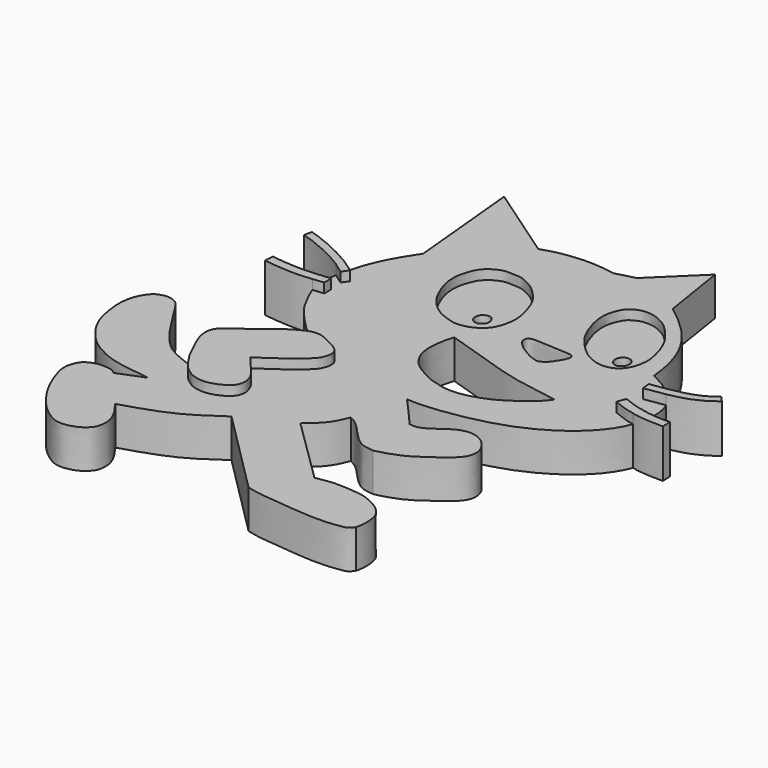
from build123d import *

# Parameters (mm, degrees)
F1_DEPTH = 4
F2_DEPTH = 3
F3_DEPTH = 5


with BuildPart() as f1:
    # F0 (on Top) → F1 (new body)
    with BuildSketch(Plane.XY):
        with BuildLine():
            add(Edge.make_bspline(
                [(-26.5839872264, 49.5766752353), (-26.4371024021, 49.5926655321), (-25.9895166386, 49.6366829129), (-25.5770023806, 49.6672653732), (-25.3004317969, 49.677814936)],
                knots=[0.3806385928, 0.3806385928, 0.3806385928, 0.3806385928, 0.4334056624, 0.5435201039, 0.5435201039, 0.5435201039, 0.5435201039], degree=3))
            ThreePointArc((-26.5839872264, 49.5766752353), (-25.0652006743, 48.910655776), (-23.555741375, 49.5975525186))
            add(Edge.make_bspline(
                [(-24.8193602743, 49.6851796937), (-24.7362563353, 49.6844273555), (-24.3195449573, 49.6751593843), (-23.8812891258, 49.6357574648), (-23.555741375, 49.5975525186)],
                knots=[0.6073190021, 0.6073190021, 0.6073190021, 0.6073190021, 0.6401763083, 0.7710861517, 0.7710861517, 0.7710861517, 0.7710861517], degree=3))
            ThreePointArc((-24.8193602743, 49.6851796937), (-25.0595482174, 49.6587775686), (-25.3004317969, 49.677814936))
        make_face()
        with BuildLine():
            Line((-29.5530743897, 48.9023700356), (-37.4778173864, 54.366633296))
            Line((-37.4778173864, 54.366633296), (-36.340682006, 42.425069252))
            add(Edge.make_bspline(
                [(-39.3492142598, 35.8996941908), (-39.3074211419, 36.0800879365), (-39.0660661166, 37.0466795571), (-38.5096896419, 38.7718597746), (-37.3009386122, 40.9751284232), (-36.6537846019, 41.9540537857), (-36.340682006, 42.425069252)],
                knots=[0.6677729016, 0.6677729016, 0.6677729016, 0.6677729016, 0.6925235555, 0.8007033815, 0.9094193064, 1, 1, 1, 1], degree=3))
            add(Edge.make_bspline(
                [(-39.3492142598, 35.8996941908), (-39.2542073224, 35.8364574676), (-39.0686996893, 35.7031027558), (-38.6819981452, 35.460693076), (-38.3572312089, 35.2296252762), (-38.0855184247, 35.0336442139), (-37.940248847, 34.9286906421)],
                knots=[0, 0, 0, 0, 0.224640202, 0.481129087, 0.7249098665, 1, 1, 1, 1], degree=3))
            add(Edge.make_bspline(
                [(-37.940248847, 34.9286906421), (-37.9707790696, 34.887586436), (-38.0612189383, 34.7815985037), (-38.3478476529, 34.3402483446), (-38.414824754, 34.2559628189)],
                knots=[0, 0, 0, 0, 0.3645404838, 1, 1, 1, 1], degree=3))
            add(Edge.make_bspline(
                [(-38.414824754, 34.2559628189), (-38.5096498869, 34.3259219294), (-38.6502383823, 34.4381858151), (-38.9349369928, 34.6416220029), (-39.3147550323, 34.883762766), (-39.4302381035, 35.0118852296), (-39.5164277977, 35.0651529752)],
                knots=[0, 0, 0, 0, 0.2353499762, 0.4890048818, 0.7744242161, 1, 1, 1, 1], degree=3))
            add(Edge.make_bspline(
                [(-39.585712883, 32.7305039568), (-39.6454672509, 33.1762803058), (-39.6646297923, 33.9613143531), (-39.5685719349, 34.7499722172), (-39.5164277977, 35.0651529752)],
                knots=[0.5221525162, 0.5221525162, 0.5221525162, 0.5221525162, 0.5866711201, 0.6297112491, 0.6297112491, 0.6297112491, 0.6297112491], degree=3))
            add(Edge.make_bspline(
                [(-39.585712883, 32.7305039568), (-39.3596170224, 32.7530936977), (-39.0800519313, 32.795861106), (-38.6024057178, 32.8347868374), (-38.3710330889, 32.8470260152), (-38.2601134479, 32.8565426171)],
                knots=[0, 0, 0, 0, 0.3681340959, 0.7061335219, 1, 1, 1, 1], degree=3))
            add(Edge.make_bspline(
                [(-38.2601134479, 32.8565426171), (-38.2585614104, 32.7415450243), (-38.2265442382, 32.258576909), (-38.2601134479, 32.0038673624), (-38.2601134479, 31.9386385381)],
                knots=[0, 0, 0, 0, 0.5761242992, 1, 1, 1, 1], degree=3))
            add(Edge.make_bspline(
                [(-38.2601134479, 31.9386385381), (-38.3860084728, 31.9268087831), (-38.6195683907, 31.8710505069), (-39.0600579816, 31.8524306174), (-39.2817121603, 31.8257883043), (-39.3792889065, 31.8153433592)],
                knots=[0, 0, 0, 0, 0.3317192067, 0.6922244447, 1, 1, 1, 1], degree=3))
            add(Edge.make_bspline(
                [(-33.0535471439, 24.6001183987), (-33.7926639348, 25.0621619307), (-35.1187476897, 25.786655482), (-36.3641574451, 27.0365272977), (-38.0369744269, 28.896147505), (-38.7302100705, 30.3898391777), (-39.218631158, 31.3277150189), (-39.3792889065, 31.8153433592)],
                knots=[0, 0, 0, 0, 0.1062876235, 0.1981970755, 0.3061692035, 0.3967749446, 0.4756984068, 0.4756984068, 0.4756984068, 0.4756984068], degree=3))
            add(Edge.make_bspline(
                [(-33.0535471439, 24.6001183987), (-32.9631571072, 24.5946110203), (-32.7663134343, 24.5977705285), (-32.4952399625, 24.4932477136), (-32.1480085592, 24.3909956253), (-31.6701300201, 24.116406655), (-30.8466850217, 23.7574067185), (-30.4775431661, 23.4692729833), (-30.1900172189, 23.2243839549), (-30.0134084448, 22.9491433911), (-29.9292433028, 22.5358087431), (-29.9697316584, 22.1676240999), (-30.0969582817, 21.7532971172), (-30.3132986586, 21.3225711335), (-30.632559585, 20.9815496564), (-31.0170935782, 20.582260985), (-31.368787403, 20.2512434917), (-31.9190137306, 19.8433639179), (-32.4102112458, 19.4660221615), (-33.7769417597, 18.5327608768), (-34.7103923559, 17.8953614086)],
                knots=[0, 0, 0, 0, 0.0402249141, 0.0807299978, 0.1253357826, 0.1823102454, 0.2543785416, 0.3066790475, 0.3520088748, 0.3949810136, 0.4434466124, 0.4895424777, 0.5392229346, 0.5914979716, 0.6434888384, 0.6993689183, 0.752927671, 0.8134740705, 0.8722955561, 1, 1, 1, 1], degree=3))
            add(Edge.make_bspline(
                [(-34.7103923559, 17.8953614086), (-34.2424451224, 17.3618187649), (-33.4776264627, 16.4897901677), (-32.9238462245, 15.7764044978), (-32.5798973104, 15.2694802996), (-32.4890922201, 14.8350311061), (-32.3417938363, 14.5521420024), (-32.3507126601, 14.0676595192), (-32.4812506785, 13.6449894938), (-32.6710064785, 13.3228410885), (-33.0401845458, 13.0073652484), (-33.3448659979, 12.7833124649), (-34.0013715965, 12.4644176497), (-34.795391129, 12.2816770436), (-35.1896282567, 12.2714414706), (-35.6211215623, 12.2965090364), (-36.0371436166, 12.4047834439), (-36.466712618, 12.5318320855), (-36.8131078837, 12.7669644309), (-37.2610719159, 13.0753236233), (-37.5915994104, 13.3954537483), (-37.9208424009, 13.7696351156), (-38.2064942382, 14.2044291037), (-38.3948827347, 14.4860852401), (-38.6200341122, 14.8124733729), (-38.814029744, 15.1390999944), (-38.8969779015, 15.2806499973)],
                knots=[0, 0, 0, 0, 0.0798555462, 0.1340805891, 0.1782355176, 0.2157621394, 0.247915098, 0.2873711793, 0.3257115564, 0.3608644493, 0.4002101946, 0.4357465058, 0.4850415503, 0.5372149816, 0.5733447564, 0.6104937015, 0.6485603077, 0.6866922309, 0.7240691942, 0.7663624431, 0.8055653656, 0.8464180236, 0.8878585192, 0.921161974, 0.9574933578, 1, 1, 1, 1], degree=3))
            add(Edge.make_bspline(
                [(-48.1152758002, 23.5314853489), (-47.9357122767, 23.5501012239), (-47.5164058394, 23.5930807017), (-46.7190704323, 23.2298219822), (-46.1582720776, 22.5238529227), (-44.2108942031, 19.2944045423), (-43.4458766455, 18.256600061), (-42.5889352664, 17.2788600237), (-41.57148716, 16.2929256592), (-39.8256758502, 15.5818497962), (-38.8969779015, 15.2806499973)],
                knots=[0, 0, 0, 0, 0.078918806, 0.1699537875, 0.2702202402, 0.468954795, 0.5914519171, 0.7031859589, 0.8254620677, 1, 1, 1, 1], degree=3))
            add(Edge.make_bspline(
                [(-40.1708446443, 11.4128673449), (-41.2469106629, 11.5504879541), (-43.1777846581, 11.7974319619), (-45.0283068973, 12.2785421426), (-46.8701238852, 13.2760255122), (-47.9794041317, 14.2766018455), (-49.3013550822, 16.0139304796), (-49.9416315964, 17.7646738682), (-50.2593778677, 20.1115598534), (-50.0337771266, 21.6653522741), (-49.4358324516, 22.7767257867), (-48.8719987611, 23.3419622281), (-48.3673169941, 23.468361014), (-48.1152758002, 23.5314853489)],
                knots=[0, 0, 0, 0, 0.1227399602, 0.2202424323, 0.3194520906, 0.4060995184, 0.5077953822, 0.6050254763, 0.7122276055, 0.8004845449, 0.8776914057, 0.938918332, 1, 1, 1, 1], degree=3))
            add(Edge.make_bspline(
                [(-42.8638719022, 10.335655883), (-41.9661961496, 10.6947263703), (-41.0685203969, 11.0537968576), (-40.1708446443, 11.4128673449)],
                knots=[0, 0, 0, 0, 2.9004793303, 2.9004793303, 2.9004793303, 2.9004793303], degree=3))
            add(Edge.make_bspline(
                [(-39.362937212, 6.1614657752), (-39.1218814776, 5.8364627319), (-38.6295911255, 5.1837387121), (-38.0278829106, 4.0881791438), (-37.8554887595, 3.2193468679), (-37.9726673426, 2.1771637275), (-38.3979421797, 1.6767858731), (-38.8524750258, 1.2403118823), (-39.8966512955, 0.786944284), (-41.0469758119, 0.7070950886), (-41.9429387249, 1.0781225624), (-42.9765643114, 1.8411140278), (-43.7683828665, 2.6402858815), (-44.8792764547, 4.0595482713), (-45.6535683421, 5.395344859), (-46.3926377345, 7.2285935781), (-46.6402854133, 8.2901274434), (-46.6289325645, 9.1007495952), (-46.3360923739, 9.8919703426), (-45.9476354368, 10.3837452242), (-44.9317541181, 10.8427599672), (-44.1333639184, 10.7772074583), (-43.4427830666, 10.7738397699), (-43.0589595957, 10.4833197703), (-42.8638719022, 10.335655883)],
                knots=[0, 0, 0, 0, 0.0500700759, 0.0998563649, 0.1424736004, 0.187477292, 0.2230173613, 0.2581964822, 0.3058616386, 0.3537716249, 0.3976771727, 0.4478548643, 0.496264633, 0.5557720724, 0.6131632671, 0.676117529, 0.72297886, 0.7628792628, 0.8032681836, 0.8387589853, 0.8851600611, 0.9257417656, 0.9621699522, 1, 1, 1, 1], degree=3))
            add(Edge.make_bspline(
                [(-30.610602349, 10.335655883), (-31.8580405724, 9.4643984327), (-34.426024868, 7.6708222797), (-37.686360308, 6.6740436942), (-39.362937212, 6.1614657752)],
                knots=[0, 0, 0, 0, 0.4857655187, 1, 1, 1, 1], degree=3))
            add(Edge.make_bspline(
                [(-21.7236150056, 1.4486700529), (-24.6859441201, 4.4109986629), (-27.6482732346, 7.3733272729), (-30.610602349, 10.335655883)],
                knots=[0, 0, 0, 0, 12.5680969596, 12.5680969596, 12.5680969596, 12.5680969596], degree=3))
            add(Edge.make_bspline(
                [(-10.5475569144, 1.4486700529), (-10.6853234183, 1.2622462566), (-10.9565203185, 0.895266227), (-11.6299894238, 0.8071850508), (-12.6445882553, 0.6366244521), (-14.5513777666, 0.5869435233), (-16.1197650889, 0.7236543362), (-18.1578060943, 0.9209721732), (-20.1384466239, 1.0882594686), (-21.2154332408, 1.3331276986), (-21.7236150056, 1.4486700529)],
                knots=[0, 0, 0, 0, 0.0864484367, 0.1701759674, 0.2787242805, 0.4254496078, 0.5614137975, 0.7135875576, 0.8648547919, 1, 1, 1, 1], degree=3))
            add(Edge.make_bspline(
                [(-18.6117291451, 6.127728615), (-18.093435943, 6.2296516707), (-17.0218816884, 6.440374257), (-15.1850591973, 6.3548999348), (-13.5665351111, 6.2190359468), (-12.2335234011, 5.6192378063), (-11.2744870288, 5.0107082772), (-10.6241713354, 4.1604929151), (-10.4740668956, 3.516481208), (-10.3828231173, 2.8058086853), (-10.4091119351, 2.0774740027), (-10.5024320882, 1.6536227287), (-10.5475569144, 1.4486700529)],
                knots=[0, 0, 0, 0, 0.1211381369, 0.2504491386, 0.3724453352, 0.4865191084, 0.5886685317, 0.685077068, 0.7619617011, 0.8421812242, 0.9236869573, 1, 1, 1, 1], degree=3))
            add(Edge.make_bspline(
                [(-25.4938509315, 12.8940315917), (-23.2047792524, 10.7396105304), (-20.9008008242, 8.2821496762), (-18.6117291451, 6.127728615)],
                knots=[0, 0, 0, 0, 9.651241177, 9.651241177, 9.651241177, 9.651241177], degree=3))
            add(Edge.make_bspline(
                [(-22.9354780167, 16.2603147328), (-23.180604661, 15.6626200388), (-23.6940619391, 14.410652136), (-24.8761149525, 13.4145765448), (-25.4938509315, 12.8940315917)],
                knots=[0, 0, 0, 0, 0.4774041672, 1, 1, 1, 1], degree=3))
            add(Edge.make_bspline(
                [(-17.8764564916, 12.8452228382), (-18.2910200074, 12.9211232094), (-19.1319726042, 12.9134894994), (-20.3922607798, 13.9230338509), (-21.8860160477, 15.7164255905), (-22.6522489064, 16.1284312237), (-22.9354780167, 16.2603147328)],
                knots=[0, 0, 0, 0, 0.2213046484, 0.4748838239, 0.7858101317, 1, 1, 1, 1], degree=3))
            add(Edge.make_bspline(
                [(-18.4536091983, 18.3039940894), (-18.4089016702, 18.2959893521), (-18.5068819134, 18.3323638365), (-17.389250108, 18.0708800717), (-15.6436242259, 19.591503639), (-14.407019022, 20.1762080181), (-13.4181875913, 20.2857201436), (-12.0804720463, 19.8230604682), (-10.9912617666, 18.3653276896), (-11.0918109849, 16.8416940739), (-12.2849899523, 15.7136689459), (-13.4937920404, 14.8699406293), (-15.2534957154, 13.582305397), (-16.8366232289, 13.0916354941), (-17.8764564916, 12.8452228382)],
                knots=[0, 0, 0, 0, 0.0118545483, 0.0744007215, 0.1854541791, 0.2696023146, 0.3384083502, 0.4216747395, 0.5157967117, 0.6000441163, 0.6890357788, 0.7767564779, 0.8801591372, 1, 1, 1, 1], degree=3))
            add(Edge.make_bspline(
                [(-21.3678583119, 21.5956345128), (-20.8407253573, 21.0511245657), (-20.1614865599, 20.2728467134), (-19.0478204113, 18.9541415248), (-18.4536091983, 18.3039940894)],
                knots=[0, 0, 0, 0, 0.4609003134, 1, 1, 1, 1], degree=3))
            add(Edge.make_bspline(
                [(-4.2875845641, 29.6565775495), (-4.4509699725, 29.2152574407), (-5.1648580525, 27.7652557835), (-7.3816189803, 25.3722035449), (-12.0249736773, 22.7412050497), (-18.0501820871, 21.6049542836), (-20.2533538099, 21.5418343656), (-21.3678583119, 21.5956345128)],
                knots=[0.345936228, 0.345936228, 0.345936228, 0.345936228, 0.40220816, 0.5374782402, 0.7005890824, 0.8727660705, 1, 1, 1, 1], degree=3))
            add(Edge.make_bspline(
                [(-6.6217845306, 30.4024852812), (-6.4087394048, 30.3162587531), (-5.9176879182, 30.0995193307), (-5.403657341, 29.9367262195), (-4.7262706118, 29.710988028), (-4.4446370838, 29.6925055262), (-4.2875845641, 29.6565775495)],
                knots=[0, 0, 0, 0, 0.2776956144, 0.5203232324, 0.785000754, 1, 1, 1, 1], degree=3))
            add(Edge.make_bspline(
                [(-6.2697250396, 31.2885828316), (-6.3298218884, 31.1518199742), (-6.5616876818, 30.5392481387), (-6.6217845306, 30.4024852812)],
                knots=[0, 0, 0, 0, 0.9534750935, 0.9534750935, 0.9534750935, 0.9534750935], degree=3))
            add(Edge.make_bspline(
                [(-4.0188429443, 30.5842483628), (-4.1992651642, 30.6156420576), (-4.5868766082, 30.688421363), (-5.3594388671, 30.9291063991), (-5.9545752521, 31.1644156533), (-6.2697250396, 31.2885828316)],
                knots=[0, 0, 0, 0, 0.2842285587, 0.622708194, 1, 1, 1, 1], degree=3))
            add(Edge.make_bspline(
                [(-4.2722358398, 33.9342041891), (-3.9096507872, 33.0888721573), (-3.8012451129, 31.907126686), (-3.9694273575, 30.8181886757), (-4.0188429443, 30.5842483628)],
                knots=[0.1774718847, 0.1774718847, 0.1774718847, 0.1774718847, 0.2790200525, 0.3074459982, 0.3074459982, 0.3074459982, 0.3074459982], degree=3))
            add(Edge.make_bspline(
                [(-6.436325144, 33.5929952562), (-6.2281077733, 33.6200475927), (-5.7925356386, 33.678942967), (-5.1081597904, 33.8007766256), (-4.5168013352, 33.8689498439), (-4.2722358398, 33.9342041891)],
                knots=[0, 0, 0, 0, 0.3123011267, 0.6421160114, 1, 1, 1, 1], degree=3))
            add(Edge.make_bspline(
                [(-6.5001188777, 34.4728752971), (-6.5001188777, 34.4139956934), (-6.4609749361, 34.2490952469), (-6.436325144, 33.6939263001), (-6.436325144, 33.5929952562)],
                knots=[0, 0, 0, 0, 0.3813518958, 1, 1, 1, 1], degree=3))
            add(Edge.make_bspline(
                [(-4.7291023657, 34.7453989089), (-4.9173112345, 34.6887796516), (-5.2157034176, 34.6592665898), (-5.8879093932, 34.5419520825), (-6.2806396692, 34.4953351131), (-6.5001188777, 34.4728752971)],
                knots=[0, 0, 0, 0, 0.3079228395, 0.6567858831, 1, 1, 1, 1], degree=3))
            add(Edge.make_bspline(
                [(-8.2912842729, 37.3737391855), (-6.8973503488, 36.7238113779), (-5.5187562011, 35.8486704514), (-4.7291023657, 34.7453989089)],
                knots=[0, 0, 0, 0, 0.1437617177, 0.1437617177, 0.1437617177, 0.1437617177], degree=3))
            add(Edge.make_bspline(
                [(-14.4524453208, 47.499421984), (-12.5134537774, 46.0658600022), (-9.4216021883, 43.1755723387), (-8.4478287999, 39.251232293), (-8.2912842729, 37.3737391855)],
                knots=[0, 0, 0, 0, 0.5190851678, 1, 1, 1, 1], degree=3))
            Line((-14.4524453208, 47.499421984), (-15.5296549201, 54.366633296))
            Line((-15.5296549201, 54.366633296), (-20.1007202268, 49.9270744622))
            add(Edge.make_bspline(
                [(-22.1494715661, 49.3808910251), (-21.466554453, 49.5629521708), (-20.7836373399, 49.7450133165), (-20.1007202268, 49.9270744622)],
                knots=[0, 0, 0, 0, 2.1203062037, 2.1203062037, 2.1203062037, 2.1203062037], degree=3))
            add(Edge.make_bspline(
                [(-23.555741375, 49.5975525186), (-23.3758572179, 49.5764420531), (-22.8305342527, 49.5031536331), (-22.4261042365, 49.430551405), (-22.1494715661, 49.3808910251)],
                knots=[0.7710861517, 0.7710861517, 0.7710861517, 0.7710861517, 0.8434214905, 1, 1, 1, 1], degree=3))
            ThreePointArc((-23.555741375, 49.5975525186), (-25.0652006743, 48.910655776), (-26.5839872264, 49.5766752353))
            add(Edge.make_bspline(
                [(-29.5530743897, 48.9023700356), (-29.066689392, 49.0661990939), (-28.1719181555, 49.3675848886), (-27.0675867401, 49.5240292265), (-26.5839872264, 49.5766752353)],
                knots=[0, 0, 0, 0, 0.2069097592, 0.3806385928, 0.3806385928, 0.3806385928, 0.3806385928], degree=3))
        make_face()
        with BuildLine():
            add(Edge.make_bspline(
                [(-30.2332229912, 43.7892563641), (-29.9228573165, 43.9786689664), (-29.2723721118, 44.2580765773), (-28.4939490566, 44.1539891425), (-27.5850567213, 44.1949816093), (-26.8281580775, 43.8421872539), (-25.9100054238, 43.3758884798), (-25.1574011532, 42.6809519633), (-24.1051747346, 41.4860622391), (-23.6121289203, 40.0697515073), (-23.2089934768, 38.5936537563), (-23.2842781044, 37.3338698883), (-23.6638343265, 35.9062931264), (-24.5498236175, 35.0331069933), (-25.6471985976, 34.5462678669), (-26.7828984726, 34.4210375757), (-27.8652470353, 34.7971765943), (-28.7522360902, 35.1370106216), (-29.8519942667, 35.9958474036), (-30.6636825645, 36.998548432), (-31.3383124235, 38.3879976954), (-31.7466248037, 39.6815342716), (-31.812891324, 41.066587122), (-31.4736446338, 42.2302509474), (-31.073930425, 43.1532132071), (-30.5415624403, 43.601080344), (-30.2332229912, 43.7892563641)],
                knots=[0, 0, 0, 0, 0.0392818866, 0.0731369283, 0.1090732528, 0.1440604386, 0.1824669357, 0.22149237, 0.2693822968, 0.3167979944, 0.363774358, 0.406947201, 0.4528476431, 0.4949618328, 0.5365688294, 0.5772360979, 0.6176530938, 0.6552170319, 0.6998450674, 0.743839122, 0.7911945707, 0.8361085383, 0.8809087685, 0.9230057249, 0.9609745657, 1, 1, 1, 1], degree=3))
        make_face(mode=Mode.SUBTRACT)
        with BuildLine():
            add(Edge.make_bspline(
                [(-11.9668785483, 29.0517173707), (-12.1266915861, 28.8308204157), (-12.4638759427, 28.3647570791), (-13.2463803236, 27.6652041288), (-13.9879346739, 27.0760625495), (-14.9079685894, 26.491538233), (-15.8043151915, 25.9247790231), (-16.8824666584, 25.4888679228), (-17.8901488362, 25.1749393867), (-18.8866916749, 25.0097543728), (-19.7854280881, 24.9833053344), (-20.5369692353, 25.0871755782), (-21.1872469006, 25.2680948683), (-22.069518343, 25.4963942641), (-22.6847600294, 25.8612975299), (-23.4568771395, 26.2242900643), (-23.9319348242, 26.5564825966), (-24.583452984, 27.0717376624), (-24.9881258195, 27.6292451253), (-25.4014152723, 28.3251148829), (-25.6252221574, 29.3260344377), (-25.6331980389, 30.1388132903), (-25.5123344024, 31.3960008046), (-25.2805997639, 32.1387110101), (-25.1662172377, 32.5053073466)],
                knots=[0, 0, 0, 0, 0.0438086152, 0.0924303795, 0.1392130306, 0.188726069, 0.2381250828, 0.2894345139, 0.3386395925, 0.3865444237, 0.4318077476, 0.472852108, 0.5122924739, 0.5573349234, 0.5984107248, 0.6417720514, 0.6786540272, 0.7214984446, 0.7611734402, 0.803980849, 0.851672857, 0.8951141151, 0.9482290928, 1, 1, 1, 1], degree=3))
            add(Edge.make_bspline(
                [(-25.1662172377, 32.5053073466), (-24.477369694, 32.2827101509), (-23.0305656259, 31.8151835826), (-20.5165900127, 31.0154553278), (-18.5294838805, 30.3568325572), (-17.5476614834, 30.090053469), (-16.654473127, 29.8606772443), (-14.7822099172, 29.5093614142), (-13.225902646, 29.2757564141), (-12.3675238636, 29.1230108379), (-11.9668785483, 29.0517173707)],
                knots=[0, 0, 0, 0, 0.1453850013, 0.3053558268, 0.4457948416, 0.5409684403, 0.6332287289, 0.7672989152, 0.8913875769, 1, 1, 1, 1], degree=3))
        make_face(mode=Mode.SUBTRACT)
        with BuildLine():
            add(Edge.make_bspline(
                [(-20.2588122338, 36.1583940685), (-20.1500139402, 36.2079069942), (-19.7693391299, 36.2709158991), (-19.2247680781, 36.2207844573), (-18.3881798225, 36.1440813584), (-17.197354232, 36.126111563), (-16.3532405526, 36.0787118489), (-15.9633912824, 36.0579556731), (-15.7670365341, 35.9592250899), (-15.6207432266, 35.8687533078), (-15.5561173236, 35.6490146793), (-15.6129642165, 35.3984012039), (-15.7777863905, 34.9773417702), (-16.159968941, 34.3994389342), (-16.3918459644, 34.0333670103), (-16.7028433204, 33.7436073253), (-16.9487839655, 33.5866363815), (-17.1549643096, 33.4818844767), (-17.37300291, 33.4485376384), (-17.6702482402, 33.5330014828), (-18.2294877514, 33.7150729402), (-18.6629755275, 33.9565103268), (-19.3635895553, 34.3640387622), (-19.6934659868, 34.620613572), (-20.0855591483, 34.9595705426), (-20.4137579247, 35.3279635048), (-20.4919572603, 35.591191227), (-20.5041164663, 35.8729358255), (-20.4058115954, 36.0500197614), (-20.3266665135, 36.1275143203), (-20.2588122338, 36.1583940685)],
                knots=[0, 0, 0, 0, 0.0381523554, 0.079608197, 0.1305217653, 0.1922387115, 0.2436054589, 0.2773170824, 0.3025599074, 0.3249374098, 0.35021895, 0.3778488188, 0.4153491898, 0.4618209891, 0.4989849837, 0.5346547627, 0.5647382431, 0.591053267, 0.6162140804, 0.6469357367, 0.6890416427, 0.7296185155, 0.7790080814, 0.8155301908, 0.8554234015, 0.8942178607, 0.9231065158, 0.9519717671, 0.9762055037, 1, 1, 1, 1], degree=3))
        make_face(mode=Mode.SUBTRACT)
        with BuildLine():
            add(Edge.make_bspline(
                [(-16.083991155, 45.7068160176), (-15.8551976763, 45.7368439657), (-15.2731085638, 45.7327852191), (-14.6491490859, 45.5766587048), (-13.7550923034, 45.1699384927), (-13.0151732466, 44.6282296992), (-12.2313726289, 43.765879081), (-11.4376299248, 42.7680506691), (-10.8949018384, 41.6625820569), (-10.5081982258, 40.3759603792), (-10.2810366438, 39.3430675777), (-10.3964018108, 38.1614381357), (-10.6178423175, 37.4857447733), (-10.945168406, 36.9464319), (-11.358191867, 36.5002877162), (-12.0588313718, 36.1934878533), (-12.9685080458, 36.0852626318), (-13.9270862498, 36.4172645352), (-14.6986842098, 36.8020449668), (-15.4583137731, 37.4345883822), (-16.0580442749, 38.0375402456), (-17.027972409, 39.1601050238), (-17.7035072848, 40.7790748079), (-18.095755331, 42.2672559446), (-18.0767855005, 43.3524360633), (-17.9015599598, 44.0048358426), (-17.6622958469, 44.6309814777), (-17.3607065619, 45.111917315), (-16.9713462688, 45.3748206012), (-16.5266320191, 45.5986661688), (-16.2600046376, 45.6837151681), (-16.083991155, 45.7068160176)],
                knots=[0, 0, 0, 0, 0.0322051239, 0.0618552959, 0.0973124617, 0.1322916175, 0.1713743686, 0.2124357085, 0.2529221562, 0.2947748896, 0.3325696762, 0.3716810006, 0.4023438997, 0.4306810546, 0.4586532768, 0.4899830988, 0.5245754607, 0.5608200521, 0.5948395142, 0.630335501, 0.6639271166, 0.7076822206, 0.7563588814, 0.8016853947, 0.8388962974, 0.8685464694, 0.8981648027, 0.9252606072, 0.9499764709, 0.9752242238, 1, 1, 1, 1], degree=3))
        make_face(mode=Mode.SUBTRACT)
        with BuildLine():
            add(Edge.make_bspline(
                [(-26.5839872264, 49.5766752353), (-26.4371024021, 49.5926655321), (-25.9895166386, 49.6366829129), (-25.5770023806, 49.6672653732), (-25.3004317969, 49.677814936)],
                knots=[0.3806385928, 0.3806385928, 0.3806385928, 0.3806385928, 0.4334056624, 0.5435201039, 0.5435201039, 0.5435201039, 0.5435201039], degree=3))
            ThreePointArc((-26.5839872264, 49.5766752353), (-25.0652006743, 48.910655776), (-23.555741375, 49.5975525186))
            add(Edge.make_bspline(
                [(-24.8193602743, 49.6851796937), (-24.7362563353, 49.6844273555), (-24.3195449573, 49.6751593843), (-23.8812891258, 49.6357574648), (-23.555741375, 49.5975525186)],
                knots=[0.6073190021, 0.6073190021, 0.6073190021, 0.6073190021, 0.6401763083, 0.7710861517, 0.7710861517, 0.7710861517, 0.7710861517], degree=3))
            ThreePointArc((-24.8193602743, 49.6851796937), (-25.0595482174, 49.6587775686), (-25.3004317969, 49.677814936))
        make_face()
    extrude(amount=F1_DEPTH)

    # F0 (on Top) → F2 (join)
    with BuildSketch(Plane.XY):
        with BuildLine():
            add(Edge.make_bspline(
                [(-30.2332229912, 43.7892563641), (-29.9228573165, 43.9786689664), (-29.2723721118, 44.2580765773), (-28.4939490566, 44.1539891425), (-27.5850567213, 44.1949816093), (-26.8281580775, 43.8421872539), (-25.9100054238, 43.3758884798), (-25.1574011532, 42.6809519633), (-24.1051747346, 41.4860622391), (-23.6121289203, 40.0697515073), (-23.2089934768, 38.5936537563), (-23.2842781044, 37.3338698883), (-23.6638343265, 35.9062931264), (-24.5498236175, 35.0331069933), (-25.6471985976, 34.5462678669), (-26.7828984726, 34.4210375757), (-27.8652470353, 34.7971765943), (-28.7522360902, 35.1370106216), (-29.8519942667, 35.9958474036), (-30.6636825645, 36.998548432), (-31.3383124235, 38.3879976954), (-31.7466248037, 39.6815342716), (-31.812891324, 41.066587122), (-31.4736446338, 42.2302509474), (-31.073930425, 43.1532132071), (-30.5415624403, 43.601080344), (-30.2332229912, 43.7892563641)],
                knots=[0, 0, 0, 0, 0.0392818866, 0.0731369283, 0.1090732528, 0.1440604386, 0.1824669357, 0.22149237, 0.2693822968, 0.3167979944, 0.363774358, 0.406947201, 0.4528476431, 0.4949618328, 0.5365688294, 0.5772360979, 0.6176530938, 0.6552170319, 0.6998450674, 0.743839122, 0.7911945707, 0.8361085383, 0.8809087685, 0.9230057249, 0.9609745657, 1, 1, 1, 1], degree=3))
        make_face()
        with BuildLine():
            add(Edge.make_bspline(
                [(-26.5627074987, 38.6980585754), (-26.4284734325, 38.7080391307), (-26.1498368015, 38.6241333689), (-25.9318898621, 38.3093011997), (-25.7937751732, 37.9442096476), (-25.8697063907, 37.5065647266), (-26.159703492, 37.2178687125), (-26.5093564187, 37.0341103995), (-27.023801647, 37.2152934369), (-27.2948718476, 37.6222646499), (-27.2949589147, 38.0517397259), (-27.1737722248, 38.4004151314), (-26.9268909105, 38.5748985253), (-26.6943977914, 38.6882671544), (-26.5627074987, 38.6980585754)],
                knots=[0, 0, 0, 0, 0.0839090766, 0.1646215273, 0.2468575028, 0.3327835732, 0.4163306829, 0.4970406289, 0.5908709364, 0.6815916481, 0.7674587214, 0.8458965744, 0.9176810241, 1, 1, 1, 1], degree=3))
        make_face(mode=Mode.SUBTRACT)
        with BuildLine():
            add(Edge.make_bspline(
                [(-16.083991155, 45.7068160176), (-15.8551976763, 45.7368439657), (-15.2731085638, 45.7327852191), (-14.6491490859, 45.5766587048), (-13.7550923034, 45.1699384927), (-13.0151732466, 44.6282296992), (-12.2313726289, 43.765879081), (-11.4376299248, 42.7680506691), (-10.8949018384, 41.6625820569), (-10.5081982258, 40.3759603792), (-10.2810366438, 39.3430675777), (-10.3964018108, 38.1614381357), (-10.6178423175, 37.4857447733), (-10.945168406, 36.9464319), (-11.358191867, 36.5002877162), (-12.0588313718, 36.1934878533), (-12.9685080458, 36.0852626318), (-13.9270862498, 36.4172645352), (-14.6986842098, 36.8020449668), (-15.4583137731, 37.4345883822), (-16.0580442749, 38.0375402456), (-17.027972409, 39.1601050238), (-17.7035072848, 40.7790748079), (-18.095755331, 42.2672559446), (-18.0767855005, 43.3524360633), (-17.9015599598, 44.0048358426), (-17.6622958469, 44.6309814777), (-17.3607065619, 45.111917315), (-16.9713462688, 45.3748206012), (-16.5266320191, 45.5986661688), (-16.2600046376, 45.6837151681), (-16.083991155, 45.7068160176)],
                knots=[0, 0, 0, 0, 0.0322051239, 0.0618552959, 0.0973124617, 0.1322916175, 0.1713743686, 0.2124357085, 0.2529221562, 0.2947748896, 0.3325696762, 0.3716810006, 0.4023438997, 0.4306810546, 0.4586532768, 0.4899830988, 0.5245754607, 0.5608200521, 0.5948395142, 0.630335501, 0.6639271166, 0.7076822206, 0.7563588814, 0.8016853947, 0.8388962974, 0.8685464694, 0.8981648027, 0.9252606072, 0.9499764709, 0.9752242238, 1, 1, 1, 1], degree=3))
        make_face()
        with BuildLine():
            add(Edge.make_bspline(
                [(-12.9578169435, 39.9454273283), (-12.8652696333, 39.9427086542), (-12.7029498736, 39.9108022127), (-12.3917542378, 39.6330276566), (-12.2700890615, 39.3217684323), (-12.3327409295, 38.7815422417), (-12.578382067, 38.5068202502), (-12.951583192, 38.2770381905), (-13.4527773109, 38.4314711854), (-13.7487076492, 38.81587643), (-13.7705497325, 39.3178958545), (-13.6216116129, 39.6463562443), (-13.3528548624, 39.921272856), (-13.0705482904, 39.9487389298), (-12.9578169435, 39.9454273283)],
                knots=[0, 0, 0, 0, 0.0669047043, 0.1494979739, 0.2264163995, 0.3213195244, 0.4013264064, 0.4856177608, 0.577343259, 0.6678374692, 0.7593737526, 0.838280868, 0.9185037641, 1, 1, 1, 1], degree=3))
        make_face(mode=Mode.SUBTRACT)
    extrude(amount=F2_DEPTH)

    # F0 (on Top) → F3 (join)
    with BuildSketch(Plane.XY):
        with BuildLine():
            add(Edge.make_bspline(
                [(-33.0535471439, 24.6001183987), (-32.9631571072, 24.5946110203), (-32.7663134343, 24.5977705285), (-32.4952399625, 24.4932477136), (-32.1480085592, 24.3909956253), (-31.6701300201, 24.116406655), (-30.8466850217, 23.7574067185), (-30.4775431661, 23.4692729833), (-30.1900172189, 23.2243839549), (-30.0134084448, 22.9491433911), (-29.9292433028, 22.5358087431), (-29.9697316584, 22.1676240999), (-30.0969582817, 21.7532971172), (-30.3132986586, 21.3225711335), (-30.632559585, 20.9815496564), (-31.0170935782, 20.582260985), (-31.368787403, 20.2512434917), (-31.9190137306, 19.8433639179), (-32.4102112458, 19.4660221615), (-33.7769417597, 18.5327608768), (-34.7103923559, 17.8953614086)],
                knots=[0, 0, 0, 0, 0.0402249141, 0.0807299978, 0.1253357826, 0.1823102454, 0.2543785416, 0.3066790475, 0.3520088748, 0.3949810136, 0.4434466124, 0.4895424777, 0.5392229346, 0.5914979716, 0.6434888384, 0.6993689183, 0.752927671, 0.8134740705, 0.8722955561, 1, 1, 1, 1], degree=3))
            add(Edge.make_bspline(
                [(-39.7912524641, 20.3645452857), (-39.6071100395, 20.5496146502), (-39.2805917687, 20.7968860736), (-38.7943843642, 21.1255001224), (-37.9325715116, 21.7220066639), (-37.1673304137, 22.292950308), (-35.7400698521, 23.5158078021), (-34.8040939395, 24.0507933176), (-34.1431889304, 24.3906490262), (-33.5464570678, 24.6160640008), (-33.2210499716, 24.6014940475), (-33.0535471439, 24.6001183987)],
                knots=[0, 0, 0, 0, 0.0981238213, 0.1895222805, 0.3095603412, 0.4304811497, 0.5942946015, 0.7203650274, 0.8224060527, 0.9164017421, 1, 1, 1, 1], degree=3))
            add(Edge.make_bspline(
                [(-38.8969779015, 15.2806499973), (-39.3012389541, 16.0646717995), (-39.8580105107, 17.1931175051), (-40.3036074819, 18.4351081454), (-40.366577557, 19.2254409589), (-40.2167365918, 19.8598418249), (-39.9757716918, 20.204628871), (-39.7912524641, 20.3645452857)],
                knots=[0, 0, 0, 0, 0.2937846737, 0.5141928806, 0.6859246244, 0.8405828017, 1, 1, 1, 1], degree=3))
            add(Edge.make_bspline(
                [(-34.7103923559, 17.8953614086), (-34.2424451224, 17.3618187649), (-33.4776264627, 16.4897901677), (-32.9238462245, 15.7764044978), (-32.5798973104, 15.2694802996), (-32.4890922201, 14.8350311061), (-32.3417938363, 14.5521420024), (-32.3507126601, 14.0676595192), (-32.4812506785, 13.6449894938), (-32.6710064785, 13.3228410885), (-33.0401845458, 13.0073652484), (-33.3448659979, 12.7833124649), (-34.0013715965, 12.4644176497), (-34.795391129, 12.2816770436), (-35.1896282567, 12.2714414706), (-35.6211215623, 12.2965090364), (-36.0371436166, 12.4047834439), (-36.466712618, 12.5318320855), (-36.8131078837, 12.7669644309), (-37.2610719159, 13.0753236233), (-37.5915994104, 13.3954537483), (-37.9208424009, 13.7696351156), (-38.2064942382, 14.2044291037), (-38.3948827347, 14.4860852401), (-38.6200341122, 14.8124733729), (-38.814029744, 15.1390999944), (-38.8969779015, 15.2806499973)],
                knots=[0, 0, 0, 0, 0.0798555462, 0.1340805891, 0.1782355176, 0.2157621394, 0.247915098, 0.2873711793, 0.3257115564, 0.3608644493, 0.4002101946, 0.4357465058, 0.4850415503, 0.5372149816, 0.5733447564, 0.6104937015, 0.6485603077, 0.6866922309, 0.7240691942, 0.7663624431, 0.8055653656, 0.8464180236, 0.8878585192, 0.921161974, 0.9574933578, 1, 1, 1, 1], degree=3))
        make_face()
        with BuildLine():
            add(Edge.make_bspline(
                [(-39.5164277977, 35.0651529752), (-39.4703152028, 35.3438765938), (-39.4134838804, 35.6222839815), (-39.3492142598, 35.8996941908)],
                knots=[0.6297112491, 0.6297112491, 0.6297112491, 0.6297112491, 0.6677729016, 0.6677729016, 0.6677729016, 0.6677729016], degree=3))
            add(Edge.make_bspline(
                [(-44.5680953562, 38.2509753108), (-44.4642691029, 38.2205152273), (-44.2532154853, 38.1679621172), (-43.8516145911, 38.020706144), (-43.5061733268, 37.9023932953), (-43.0254355285, 37.7199193085), (-42.520357744, 37.5191962261), (-42.0548152403, 37.3073299786), (-41.5979730901, 37.1069447996), (-41.1530132235, 36.8864153597), (-40.7929008915, 36.6984165234), (-40.3427143305, 36.4754378014), (-39.9876306436, 36.2426027996), (-39.5725063734, 36.0475306041), (-39.3492142598, 35.8996941908)],
                knots=[0, 0, 0, 0, 0.0692482132, 0.1476171784, 0.2213793309, 0.307765889, 0.3977509775, 0.4842987954, 0.5701488171, 0.6549300907, 0.7328308803, 0.8172682882, 0.8963792236, 1, 1, 1, 1], degree=3))
            add(Edge.make_bspline(
                [(-44.5680953562, 38.2509753108), (-44.6070122222, 38.1072834134), (-44.731238236, 37.5845320523), (-44.770155102, 37.4408401549)],
                knots=[0, 0, 0, 0, 0.834953359, 0.834953359, 0.834953359, 0.834953359], degree=3))
            add(Edge.make_bspline(
                [(-44.770155102, 37.4408401549), (-44.6608938665, 37.3997009018), (-44.39690291, 37.3363611726), (-44.00269733, 37.2173974459), (-43.4862025891, 37.0389519609), (-43.0367073745, 36.846416504), (-42.5635969338, 36.6595335673), (-42.0486552863, 36.4284036174), (-41.5640870919, 36.1943155897), (-41.1218643887, 35.9816976369), (-40.6280072374, 35.727233819), (-40.1611300713, 35.4639900341), (-39.8442161061, 35.2463970346), (-39.6430485483, 35.1636187563), (-39.5164277977, 35.0651529752)],
                knots=[0, 0, 0, 0, 0.0739792783, 0.151997515, 0.2407694512, 0.3252994992, 0.4109002802, 0.5016113403, 0.5898342092, 0.6740252729, 0.7641853202, 0.8526650924, 0.9254979959, 1, 1, 1, 1], degree=3))
        make_face()
        with BuildLine():
            add(Edge.make_bspline(
                [(-39.3492142598, 35.8996941908), (-39.2542073224, 35.8364574676), (-39.0686996893, 35.7031027558), (-38.6819981452, 35.460693076), (-38.3572312089, 35.2296252762), (-38.0855184247, 35.0336442139), (-37.940248847, 34.9286906421)],
                knots=[0, 0, 0, 0, 0.224640202, 0.481129087, 0.7249098665, 1, 1, 1, 1], degree=3))
            add(Edge.make_bspline(
                [(-39.5164277977, 35.0651529752), (-39.4703152028, 35.3438765938), (-39.4134838804, 35.6222839815), (-39.3492142598, 35.8996941908)],
                knots=[0.6297112491, 0.6297112491, 0.6297112491, 0.6297112491, 0.6677729016, 0.6677729016, 0.6677729016, 0.6677729016], degree=3))
            add(Edge.make_bspline(
                [(-38.414824754, 34.2559628189), (-38.5096498869, 34.3259219294), (-38.6502383823, 34.4381858151), (-38.9349369928, 34.6416220029), (-39.3147550323, 34.883762766), (-39.4302381035, 35.0118852296), (-39.5164277977, 35.0651529752)],
                knots=[0, 0, 0, 0, 0.2353499762, 0.4890048818, 0.7744242161, 1, 1, 1, 1], degree=3))
            add(Edge.make_bspline(
                [(-37.940248847, 34.9286906421), (-37.9707790696, 34.887586436), (-38.0612189383, 34.7815985037), (-38.3478476529, 34.3402483446), (-38.414824754, 34.2559628189)],
                knots=[0, 0, 0, 0, 0.3645404838, 1, 1, 1, 1], degree=3))
        make_face()
        with BuildLine():
            add(Edge.make_bspline(
                [(-39.3792889065, 31.8153433592), (-39.4013762888, 31.8823829741), (-39.490539568, 32.1735268979), (-39.5527383204, 32.4845088837), (-39.585712883, 32.7305039568)],
                knots=[0.4756984068, 0.4756984068, 0.4756984068, 0.4756984068, 0.4865488806, 0.5221525162, 0.5221525162, 0.5221525162, 0.5221525162], degree=3))
            add(Edge.make_bspline(
                [(-44.3435758352, 32.9164117575), (-44.2342375931, 32.8852722894), (-43.9829565243, 32.8521337362), (-43.3982644675, 32.7754145577), (-42.7015155105, 32.7156172779), (-42.0754044107, 32.6804214048), (-41.4736589993, 32.6623859596), (-40.8789319549, 32.6602729203), (-40.3641401879, 32.6854029241), (-39.7627072616, 32.7392856857), (-39.7181284982, 32.7180782344), (-39.585712883, 32.7305039568)],
                knots=[0, 0, 0, 0, 0.0920617667, 0.2104188909, 0.3406657937, 0.4631294943, 0.5828697396, 0.7007824684, 0.8160098017, 0.9281204739, 1, 1, 1, 1], degree=3))
            add(Edge.make_bspline(
                [(-44.3435758352, 32.9164117575), (-44.35555016, 32.7727211018), (-44.3986567358, 32.098694394), (-44.4106310606, 31.9550037384)],
                knots=[0, 0, 0, 0, 0.963743629, 0.963743629, 0.963743629, 0.963743629], degree=3))
            add(Edge.make_bspline(
                [(-44.4106310606, 31.9550037384), (-44.2670109674, 31.9242288026), (-44.0082106323, 31.899345103), (-43.4875541381, 31.8420061141), (-42.7684876831, 31.7745333637), (-42.122947718, 31.7319132174), (-41.4932337119, 31.7072593378), (-40.8567532835, 31.6920678977), (-40.2600444154, 31.7440351523), (-39.7521205083, 31.7739709446), (-39.50541942, 31.8021992063), (-39.3792889065, 31.8153433592)],
                knots=[0, 0, 0, 0, 0.0948103051, 0.2019278678, 0.329266642, 0.4500221946, 0.5680627726, 0.6872587782, 0.8034165012, 0.909032916, 1, 1, 1, 1], degree=3))
        make_face()
        with BuildLine():
            add(Edge.make_bspline(
                [(-39.585712883, 32.7305039568), (-39.3596170224, 32.7530936977), (-39.0800519313, 32.795861106), (-38.6024057178, 32.8347868374), (-38.3710330889, 32.8470260152), (-38.2601134479, 32.8565426171)],
                knots=[0, 0, 0, 0, 0.3681340959, 0.7061335219, 1, 1, 1, 1], degree=3))
            add(Edge.make_bspline(
                [(-39.3792889065, 31.8153433592), (-39.4013762888, 31.8823829741), (-39.490539568, 32.1735268979), (-39.5527383204, 32.4845088837), (-39.585712883, 32.7305039568)],
                knots=[0.4756984068, 0.4756984068, 0.4756984068, 0.4756984068, 0.4865488806, 0.5221525162, 0.5221525162, 0.5221525162, 0.5221525162], degree=3))
            add(Edge.make_bspline(
                [(-38.2601134479, 31.9386385381), (-38.3860084728, 31.9268087831), (-38.6195683907, 31.8710505069), (-39.0600579816, 31.8524306174), (-39.2817121603, 31.8257883043), (-39.3792889065, 31.8153433592)],
                knots=[0, 0, 0, 0, 0.3317192067, 0.6922244447, 1, 1, 1, 1], degree=3))
            add(Edge.make_bspline(
                [(-38.2601134479, 32.8565426171), (-38.2585614104, 32.7415450243), (-38.2265442382, 32.258576909), (-38.2601134479, 32.0038673624), (-38.2601134479, 31.9386385381)],
                knots=[0, 0, 0, 0, 0.5761242992, 1, 1, 1, 1], degree=3))
        make_face()
        with BuildLine():
            add(Edge.make_bspline(
                [(-4.0188429443, 30.5842483628), (-4.0857542549, 30.2674808407), (-4.1758282822, 29.9584422939), (-4.2875845641, 29.6565775495)],
                knots=[0.3074459982, 0.3074459982, 0.3074459982, 0.3074459982, 0.345936228, 0.345936228, 0.345936228, 0.345936228], degree=3))
            add(Edge.make_bspline(
                [(-4.0188429443, 30.5842483628), (-4.1992651642, 30.6156420576), (-4.5868766082, 30.688421363), (-5.3594388671, 30.9291063991), (-5.9545752521, 31.1644156533), (-6.2697250396, 31.2885828316)],
                knots=[0, 0, 0, 0, 0.2842285587, 0.622708194, 1, 1, 1, 1], degree=3))
            add(Edge.make_bspline(
                [(-6.2697250396, 31.2885828316), (-6.3298218884, 31.1518199742), (-6.5616876818, 30.5392481387), (-6.6217845306, 30.4024852812)],
                knots=[0, 0, 0, 0, 0.9534750935, 0.9534750935, 0.9534750935, 0.9534750935], degree=3))
            add(Edge.make_bspline(
                [(-6.6217845306, 30.4024852812), (-6.4087394048, 30.3162587531), (-5.9176879182, 30.0995193307), (-5.403657341, 29.9367262195), (-4.7262706118, 29.710988028), (-4.4446370838, 29.6925055262), (-4.2875845641, 29.6565775495)],
                knots=[0, 0, 0, 0, 0.2776956144, 0.5203232324, 0.785000754, 1, 1, 1, 1], degree=3))
        make_face()
        with BuildLine():
            add(Edge.make_bspline(
                [(-4.0188429443, 30.5842483628), (-3.9630057763, 30.5709631626), (-3.8408714376, 30.5475894364), (-3.6474707722, 30.4971541567), (-3.3659166718, 30.4455336697), (-3.1086764507, 30.4195511518), (-2.7604420516, 30.3642346302), (-2.4522213966, 30.3454780264), (-2.0203800524, 30.3186482065), (-1.6912107187, 30.3039903695), (-1.3077462033, 30.309925077), (-1.092317075, 30.3195992634), (-0.9894063696, 30.3242206573)],
                knots=[0, 0, 0, 0, 0.0768678449, 0.1589361591, 0.255683467, 0.3498167681, 0.4566146633, 0.5597523466, 0.6785695402, 0.7849170878, 0.8969822989, 1, 1, 1, 1], degree=3))
            add(Edge.make_bspline(
                [(-4.0188429443, 30.5842483628), (-4.0857542549, 30.2674808407), (-4.1758282822, 29.9584422939), (-4.2875845641, 29.6565775495)],
                knots=[0.3074459982, 0.3074459982, 0.3074459982, 0.3074459982, 0.345936228, 0.345936228, 0.345936228, 0.345936228], degree=3))
            add(Edge.make_bspline(
                [(-0.9670997388, 29.3579604477), (-1.061294064, 29.357753081), (-1.3308914456, 29.3636986448), (-1.6744195339, 29.3587125964), (-2.0136131305, 29.3695287493), (-2.3607550062, 29.3832600245), (-2.7162161627, 29.418012404), (-3.044634842, 29.4384250269), (-3.3637497199, 29.4750992447), (-3.6990700272, 29.509327865), (-3.9538231648, 29.5558269184), (-4.2000457999, 29.6433286935), (-4.2875845641, 29.6565775495)],
                knots=[0, 0, 0, 0, 0.1029029875, 0.2062051821, 0.3064393474, 0.4085781949, 0.5120551097, 0.6111583939, 0.7097434206, 0.8090283997, 0.8995766238, 1, 1, 1, 1], degree=3))
            add(Edge.make_bspline(
                [(-0.9894063696, 30.3242206573), (-0.9926543571, 30.1773827523), (-0.9638517513, 29.5047983527), (-0.9670997388, 29.3579604477)],
                knots=[0, 0, 0, 0, 0.9665176556, 0.9665176556, 0.9665176556, 0.9665176556], degree=3))
        make_face()
        with BuildLine():
            add(Edge.make_bspline(
                [(-4.7291023657, 34.7453989089), (-4.4551381977, 34.7971495684), (-3.8779425525, 34.9002065943), (-3.3532920444, 35.0225465898), (-2.7604465262, 35.1877634618), (-2.031062729, 35.4457834472), (-1.4257594487, 35.7679991319), (-0.981288831, 36.0103206681), (-0.6748065474, 36.2634452895), (-0.5179163418, 36.3930314779)],
                knots=[0, 0, 0, 0, 0.1649489115, 0.2956368557, 0.4332492464, 0.5905893222, 0.7372329011, 0.8629567933, 1, 1, 1, 1], degree=3))
            add(Edge.make_bspline(
                [(-4.7291023657, 34.7453989089), (-4.6928311264, 34.6947222397), (-4.5140113352, 34.4335629499), (-4.3690224347, 34.1598527876), (-4.2722358398, 33.9342041891)],
                knots=[0.1437617177, 0.1437617177, 0.1437617177, 0.1437617177, 0.1503651374, 0.1774718847, 0.1774718847, 0.1774718847, 0.1774718847], degree=3))
            add(Edge.make_bspline(
                [(0.0364126918, 35.7953235507), (-0.0678621404, 35.7243918898), (-0.4259765217, 35.4356383305), (-0.5829183968, 35.3432539007), (-0.8387913476, 35.1743372167), (-1.0664912855, 35.0181627076), (-1.4423912915, 34.8395643236), (-1.7728016184, 34.6646220322), (-2.2566782963, 34.4573630396), (-2.8232277674, 34.2676739136), (-3.2407584618, 34.1634194777), (-3.7523113209, 34.0439547247), (-4.0752242067, 33.9625829748), (-4.2722358398, 33.9342041891)],
                knots=[0, 0, 0, 0, 0.1054893228, 0.1700031771, 0.244319234, 0.3194459798, 0.4085382382, 0.4946830813, 0.5963930244, 0.7046836502, 0.797011515, 0.8967084242, 1, 1, 1, 1], degree=3))
            add(Edge.make_bspline(
                [(-0.5179163418, 36.3930314779), (-0.4334891952, 36.2832769752), (-0.0480144548, 35.9050780535), (0.0364126918, 35.7953235507)],
                knots=[0, 0, 0, 0, 0.815190434, 0.815190434, 0.815190434, 0.815190434], degree=3))
        make_face()
        with BuildLine():
            add(Edge.make_bspline(
                [(-4.7291023657, 34.7453989089), (-4.6928311264, 34.6947222397), (-4.5140113352, 34.4335629499), (-4.3690224347, 34.1598527876), (-4.2722358398, 33.9342041891)],
                knots=[0.1437617177, 0.1437617177, 0.1437617177, 0.1437617177, 0.1503651374, 0.1774718847, 0.1774718847, 0.1774718847, 0.1774718847], degree=3))
            add(Edge.make_bspline(
                [(-4.7291023657, 34.7453989089), (-4.9173112345, 34.6887796516), (-5.2157034176, 34.6592665898), (-5.8879093932, 34.5419520825), (-6.2806396692, 34.4953351131), (-6.5001188777, 34.4728752971)],
                knots=[0, 0, 0, 0, 0.3079228395, 0.6567858831, 1, 1, 1, 1], degree=3))
            add(Edge.make_bspline(
                [(-6.5001188777, 34.4728752971), (-6.5001188777, 34.4139956934), (-6.4609749361, 34.2490952469), (-6.436325144, 33.6939263001), (-6.436325144, 33.5929952562)],
                knots=[0, 0, 0, 0, 0.3813518958, 1, 1, 1, 1], degree=3))
            add(Edge.make_bspline(
                [(-6.436325144, 33.5929952562), (-6.2281077733, 33.6200475927), (-5.7925356386, 33.678942967), (-5.1081597904, 33.8007766256), (-4.5168013352, 33.8689498439), (-4.2722358398, 33.9342041891)],
                knots=[0, 0, 0, 0, 0.3123011267, 0.6421160114, 1, 1, 1, 1], degree=3))
        make_face()
    extrude(amount=F3_DEPTH)


solid = f1.part
